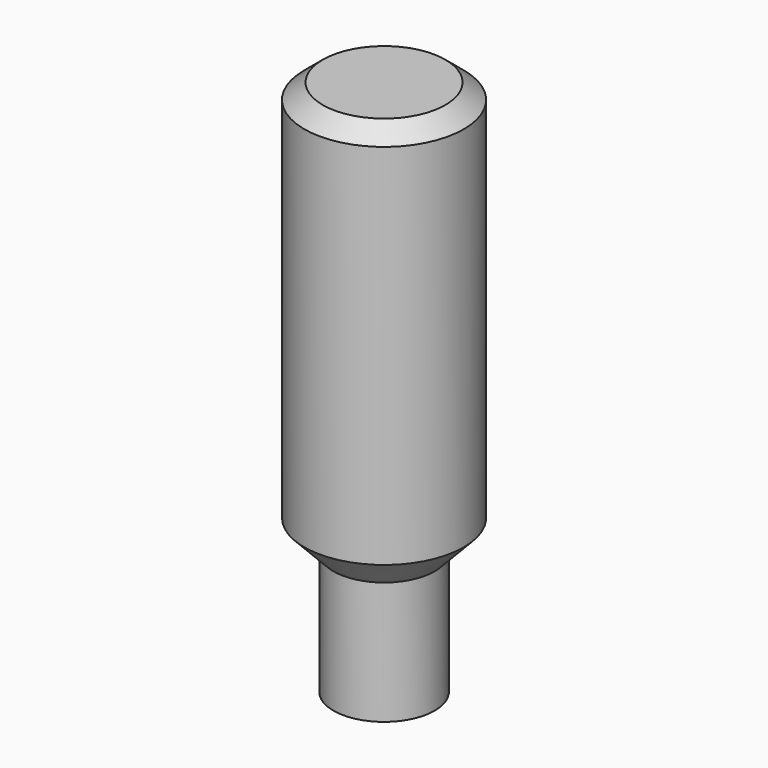
from build123d import *

# Parameters (mm, degrees)
F0_R     = 16.5
F0_R_2   = 6.75
F1_DEPTH = 40
F4_R     = 26
F5_DEPTH = 120


with BuildPart() as f1:
    # F0 (on Top) → F1 (new body)
    with BuildSketch(Plane.XY):
        Circle(F0_R)
        Circle(F0_R_2, mode=Mode.SUBTRACT)
    extrude(amount=F1_DEPTH)

    # F2 (on Front) → F3 (revolve)
    with BuildSketch(Plane.XZ):
        Polygon((0, 39.999226), (16.5, 39.999226), (26, 49.999226), (0, 49.999226), align=None)
    revolve(axis=Axis((0, 0, 44.999226), (0, 0, 1)))

    # F4 (on face) → F5 (join)
    with BuildSketch(Plane.XY.offset(49.999226)):
        Circle(F4_R)
    extrude(amount=F5_DEPTH)

    # F6 (on Front) → F7 (revolve)
    with BuildSketch(Plane.XZ):
        Polygon((0, 169.999226), (0, 174.999226), (-20, 174.999226), (-26, 169.999226), align=None)
    revolve(axis=Axis((0, 0, 172.499226), (0, 0, 1)))


solid = f1.part
